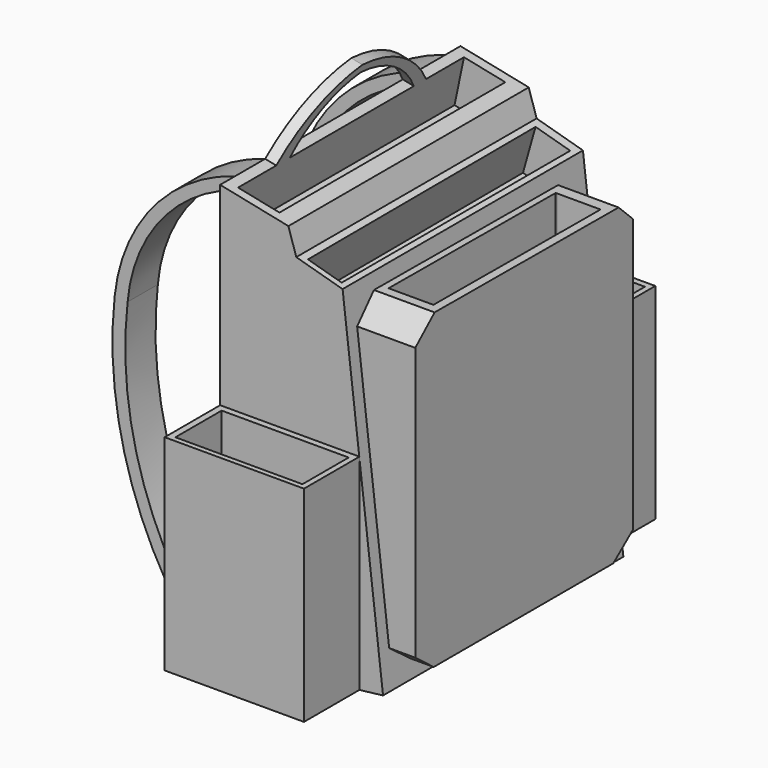
from build123d import *

# Parameters (mm, degrees)
F1_DEPTH  = 330.2
F3_DEPTH  = 203.2
F4_W      = 41.5566265583
F4_H      = 483.5203289986
F5_DEPTH  = 139.7
F8_DEPTH  = 304.8
F9_DEPTH  = 304.8
F13_DEPTH = 50.8
F14_DEPTH = 50.8
F15_DEPTH = 50.8
F16_W     = 12.4509147432
F16_H     = 205.8088108897
F17_DEPTH = 60.96
F19_DEPTH = 25.4
F20_DEPTH = 25.4
F21_W     = 153.1679212224
F21_H     = 225.7029655442
F22_DEPTH = 76.2
F23_W     = 153.0837979386
F23_H     = 225.7128436606
F24_DEPTH = 76.2
F25_W     = 139.6465194412
F25_H     = 63.5316371918
F26_DEPTH = 76.2
F27_W     = 140.8935589716
F27_H     = 64.2704893835
F28_DEPTH = 76.2


with BuildPart() as f1:
    # F0 (on Front) → F1 (new body)
    with BuildSketch(Plane.XZ):
        Polygon((75.0250443816, 274.7305631638), (0, 290.2742098035), (0, -192.3257901965), (80.0467804074, -190.855011344), (97.7545654154, -155.2051532254), (179.0464967489, -145.659506321), (134.568348527, 233.1220060587), (83.6337208748, 247.4697828293), align=None)
    extrude(amount=F1_DEPTH)

    # F2 (on Right) → F3 (join)
    with BuildSketch(Plane.YZ):
        Polygon((-36.8141271174, 215.1695936918), (-289.5758748055, 216.376081109), (-316.1188662052, 192.8493380547), (-316.1188662052, -106.9659143686), (-290.7823622227, -126.2699067593), (-44.0531261265, -126.2699067593), (-16.9068686664, -104.5529171824), (-16.9068686664, 195.8655864), align=None)
    extrude(amount=F3_DEPTH)

    # F4 (on Right) → F5 (join)
    with BuildSketch(Plane.YZ):
        Polygon((-20.9644548595, -191.9956207275), (-20.9644548595, 291.524708271), (-62.5730231404, 291.524708271), (-62.5730231404, -191.9956207275), (-26.7035681754, -191.9956207275), align=None)
        with Locations((-289.1601473093, 49.7645437717)):
            Rectangle(F4_W, F4_H)
    extrude(amount=-F5_DEPTH)

    # F7 (on face) → F8 (cut)
    with BuildSketch(Plane(origin=(0, -20.9644548595, 0), x_dir=(-1, 0, 0), z_dir=(0, 1, 0))):
        with BuildLine():
            Line((0, 291.524708271), (0, 290.2742098035))
            ThreePointArc((0, 290.2742098035), (90.3834546734, 230.8148027656), (132.1892142296, 131.0306936502))
            ThreePointArc((132.1892142296, 131.0306936502), (117.5430207962, -31.2395021377), (41.5639653802, -175.3689944744))
            ThreePointArc((41.5639653802, -175.3689944744), (22.3830735082, -187.6847842501), (0, -191.9956207275))
            Line((0, -191.9956207275), (139.7, -191.9956207275))
            Line((139.7, -191.9956207275), (139.7, 291.524708271))
            Line((139.7, 291.524708271), (0, 291.524708271))
        make_face()
    extrude(amount=-F8_DEPTH, mode=Mode.SUBTRACT)

    # F7 (on face) → F9 (cut)
    with BuildSketch(Plane(origin=(0, -20.9644548595, 0), x_dir=(-1, 0, 0), z_dir=(0, 1, 0))):
        with BuildLine():
            ThreePointArc((30.8481585234, -166.6212230921), (104.4091983221, -26.9422304703), (117.9412454367, 130.3420066833))
            ThreePointArc((117.9412454367, 130.3420066833), (81.3233643675, 221.5363124881), (0, 276.7067849636))
            Line((0, 276.7067849636), (0, -182.9511970282))
            ThreePointArc((0, -182.9511970282), (16.9048608228, -177.5834823958), (30.8481585234, -166.6212230921))
        make_face()
    extrude(amount=-F9_DEPTH, mode=Mode.SUBTRACT)

    # F12 (on face) → F13 (cut)
    with BuildSketch(Plane(origin=(0, 1.026189658, 214.9889735368), x_dir=(1, 0, 0), z_dir=(0, 0.0047731656, 0.9999886084))):
        Polygon((193.5474094368, -50.5835317066), (145.7960009575, -50.5567677319), (144.2719995975, -50.5567677319), (144.2719995975, -280.1753878593), (193.5474094368, -280.1753878593), align=None)
    extrude(amount=-F13_DEPTH, mode=Mode.SUBTRACT)

    # F10 (on face) → F14 (cut)
    with BuildSketch(Plane(origin=(57.6637293587, 0, 278.3274706783), x_dir=(0.9792054246, 0, -0.202871231), z_dir=(0.202871231, 0, 0.9792054246))):
        Polygon((0, -10.4822274297), (-44.3622209132, -10.4822274297), (-46.4373715222, -10.4822274297), (-46.4373715222, -320.8020031452), (0, -320.8020031452), align=None)
    extrude(amount=-F14_DEPTH, mode=Mode.SUBTRACT)

    # F11 (on face) → F15 (cut)
    with BuildSketch(Plane(origin=(70.7334014159, 0, 251.1036741994), x_dir=(0.9625404698, 0, -0.2711380534), z_dir=(0.2711380534, 0, 0.9625404698))):
        Polygon((60.0396618247, -9.9059985951), (20.4569026828, -9.9059985951), (21.5124394745, -323.8500058651), (60.0396618247, -323.8500058651), align=None)
    extrude(amount=-F15_DEPTH, mode=Mode.SUBTRACT)

    # F16 (on face) → F17 (join)
    with BuildSketch(Plane(origin=(57.6637293587, 0, 278.3274706783), x_dir=(0.9792054246, 0, -0.202871231), z_dir=(0.202871231, 0, 0.9792054246))):
        with Locations((-52.6628288938, -165.4774285853)):
            Rectangle(F16_W, F16_H)
    extrude(amount=F17_DEPTH)

    # F18 (on face) → F19 (cut)
    with BuildSketch(Plane(origin=(-57.6637293587, 0, 11.9467391251), x_dir=(0, -1, 0), z_dir=(-0.9792054246, 0, 0.202871231))):
        with BuildLine():
            ThreePointArc((62.5730231404, 284.2380808719), (106.8196773219, 326.8815108015), (165.4774285853, 345.1980808719))
            Line((165.4774285853, 345.1980808719), (62.5730231404, 345.1980808719))
            Line((62.5730231404, 345.1980808719), (62.5730231404, 284.2380808719))
        make_face()
        with BuildLine():
            Line((268.3818340302, 345.1980808719), (165.4774285853, 345.1980808719))
            ThreePointArc((165.4774285853, 345.1980808719), (223.2646342428, 325.4119737611), (268.3818340302, 284.2380808719))
            Line((268.3818340302, 284.2380808719), (268.3818340302, 345.1980808719))
        make_face()
    extrude(amount=-F19_DEPTH, mode=Mode.SUBTRACT)

    # F18 (on face) → F20 (cut)
    with BuildSketch(Plane(origin=(-57.6637293587, 0, 11.9467391251), x_dir=(0, -1, 0), z_dir=(-0.9792054246, 0, 0.202871231))):
        with BuildLine():
            ThreePointArc((165.4774285853, 337.3909592628), (115.9669465301, 321.2480632926), (79.3316885829, 284.2380808719))
            Line((79.3316885829, 284.2380808719), (249.7253417969, 284.2380808719))
            ThreePointArc((249.7253417969, 284.2380808719), (213.6637620757, 320.4234559725), (165.4774285853, 337.3909592628))
        make_face()
    extrude(amount=-F20_DEPTH, mode=Mode.SUBTRACT)

    # F21 (on face) → F22 (join)
    with BuildSketch(Plane(origin=(0, 0, 0), x_dir=(-1, 0, 0), z_dir=(0, 1, 0))):
        with Locations((-76.5839606112, -35.8467967741)):
            Rectangle(F21_W, F21_H)
    extrude(amount=F22_DEPTH)

    # F23 (on face) → F24 (join)
    with BuildSketch(Plane.XZ.offset(330.2)):
        with Locations((76.5418989693, -35.8517358323)):
            Rectangle(F23_W, F23_H)
    extrude(amount=F24_DEPTH)

    # F25 (on face) → F26 (cut)
    with BuildSketch(Plane.XY.offset(77.004685998)):
        with Locations((77.0478153136, -368.982732296)):
            Rectangle(F25_W, F25_H)
    extrude(amount=-F26_DEPTH, mode=Mode.SUBTRACT)

    # F27 (on face) → F28 (cut)
    with BuildSketch(Plane.XY.offset(77.004685998)):
        with Locations((76.6873457469, 37.3120044824)):
            Rectangle(F27_W, F27_H)
    extrude(amount=-F28_DEPTH, mode=Mode.SUBTRACT)


solid = f1.part
